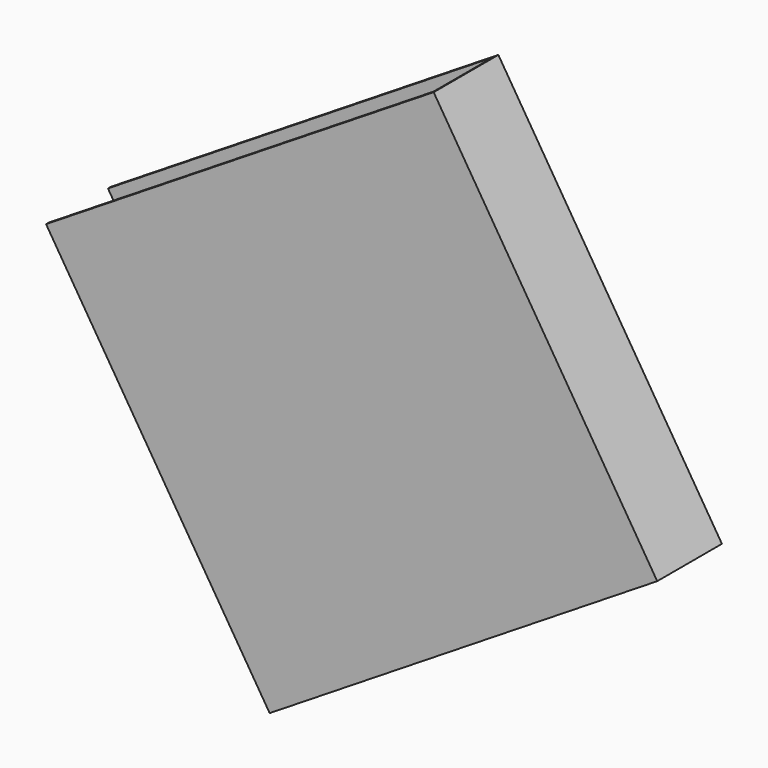
from build123d import *

# Parameters (mm, degrees)
BOX158_W               = 6
BOX158_H               = 6.45
BOX158_DEPTH           = 1.05
BOX157_W               = 6
BOX157_H               = 6.5
BOX157_DEPTH           = 1.15
CUT076_ROLL_ANGLE      = 90
CUT076_PITCH_ANGLE     = -58
CUT076_PLACEMENT_ANGLE = 180


with BuildPart() as small_cu_gnd_electrode064:
    # Box158 → Box158 (new body)
    with BuildSketch(Plane.XY.offset(0.05)):
        with Locations((3, 3.225)):
            Rectangle(BOX158_W, BOX158_H)
    extrude(amount=BOX158_DEPTH)


with BuildPart() as small_cu_electrode_short_axis_gnd007:
    # Box157 → Box157 (new body)
    with BuildSketch(Plane.XY):
        with Locations((3, 3.25)):
            Rectangle(BOX157_W, BOX157_H)
    extrude(amount=BOX157_DEPTH)

    # Cut076: cut Small Cu GND Electrode064
    add(small_cu_gnd_electrode064.part, mode=Mode.SUBTRACT)


with BuildPart() as small_cu_electrode_short_axis_gnd007_1:
    # Cut076 roll: moved
    add(small_cu_electrode_short_axis_gnd007.part.rotate(Axis((0, 0, 0), (1, 0, 0)), CUT076_ROLL_ANGLE))


with BuildPart() as small_cu_electrode_short_axis_gnd007_2:
    # Cut076 pitch: moved
    add(small_cu_electrode_short_axis_gnd007_1.part.rotate(Axis((0, 0, 0), (0, 1, 0)), CUT076_PITCH_ANGLE))


with BuildPart() as small_cu_electrode_short_axis_gnd007_3:
    # Cut076 placement: moved
    add(small_cu_electrode_short_axis_gnd007_2.part.moved(Location((9.199953, 1.59, 40.788858))).rotate(Axis((9.199953, 1.59, 40.788858), (0, 0, 1)), CUT076_PLACEMENT_ANGLE))


solid = small_cu_electrode_short_axis_gnd007_3.part
